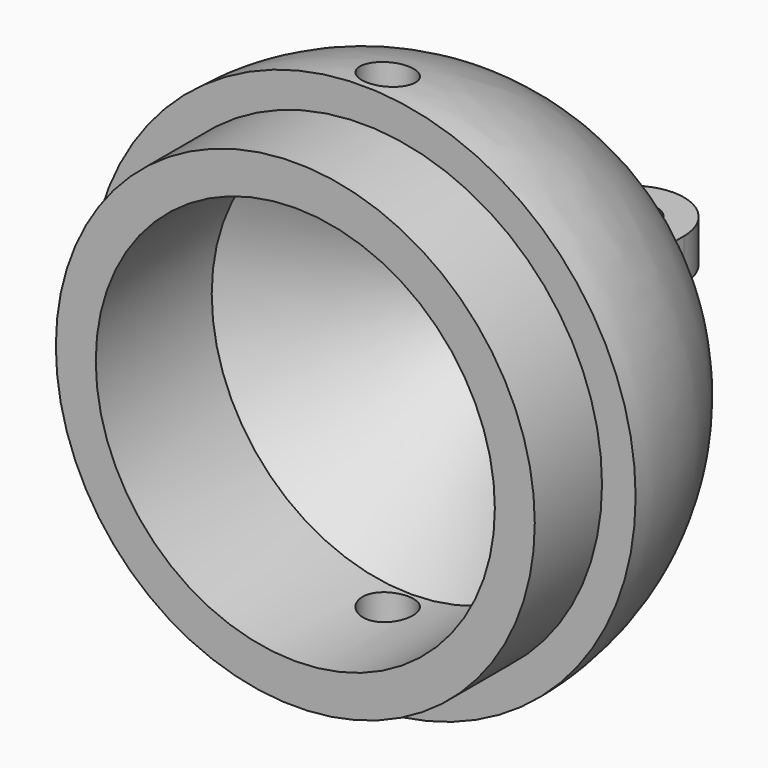
from build123d import *

# Parameters (mm, degrees)
SKETCH001_R             = 1.2
PAD_DEPTH               = 2
BODY001_PLACEMENT_ANGLE = 270
CYLINDER_R              = 1.2
CYLINDER_DEPTH          = 30


with BuildPart() as body001:
    # Sketch001 → Pad (new body)
    with BuildSketch(Plane.YZ):
        with BuildLine():
            Line((16.4, 2.5), (20, 2.5))
            ThreePointArc((20, -2.5), (22.5, 0), (20, 2.5))
            Line((20, -2.5), (16.4, -2.5))
            Line((16.4, 2.5), (16.4, -2.5))
        make_face()
        with Locations((20, 0)):
            Circle(SKETCH001_R, mode=Mode.SUBTRACT)
    extrude(amount=PAD_DEPTH)


with BuildPart() as body001_1:
    # Body001 placement: moved
    add(body001.part.moved(Location((0, 0, -1))).rotate(Axis((0, 0, -1), (0, 1, 0)), BODY001_PLACEMENT_ANGLE))


with BuildPart() as cylinder:
    # Cylinder → Cylinder (new body)
    with BuildSketch(Plane(origin=(0, 5.5, -15), x_dir=(1, 0, 0), z_dir=(0, 0, 1))):
        Circle(CYLINDER_R)
    extrude(amount=CYLINDER_DEPTH)


with BuildPart() as fusion:
    # Sketch → Revolution (revolve)
    with BuildSketch(Plane.XY):
        with BuildLine():
            ThreePointArc((0, 17), (-9.192388, 13.192388), (-13, 4))
            Line((-13, 4), (-11.4, 4))
            Line((-11.4, 4), (-11.4, 0))
            Line((-11.4, 0), (-9.5, 0))
            Line((-9.5, 0), (-9.5, 6.9))
            Line((-9.5, 6.9), (0, 16.4))
            Line((0, 16.4), (0, 17))
        make_face()
    revolve(axis=Axis((0, 0, 0), (0, 1, 0)))

    # Cut: cut Cylinder
    add(cylinder.part, mode=Mode.SUBTRACT)

    # Fusion: union Body001
    add(body001_1.part)


solid = fusion.part
